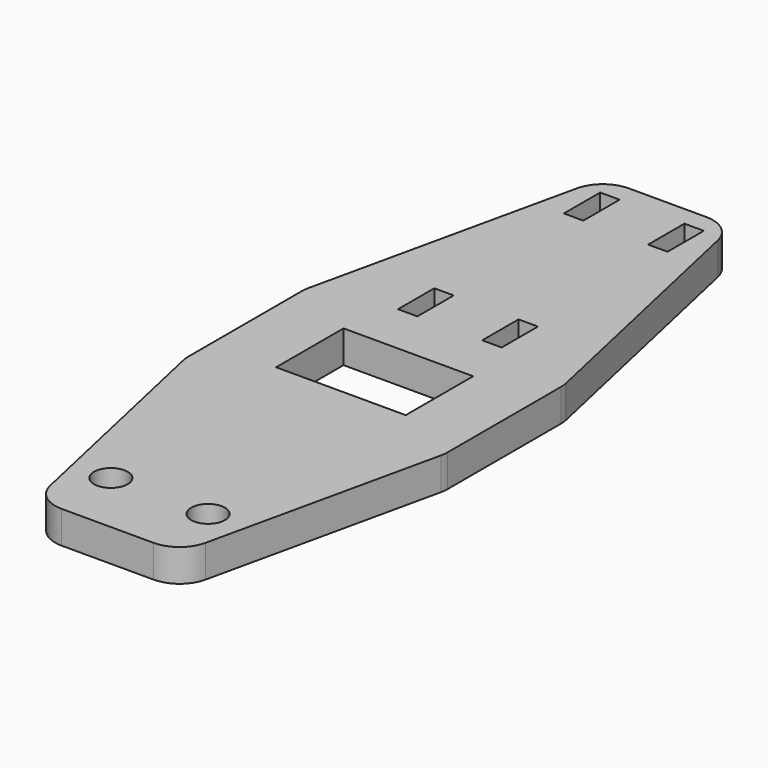
from build123d import *

# Parameters (mm, degrees)
SKETCH_R   = 2.6
SKETCH_W   = 3
SKETCH_H   = 7
SKETCH_W_2 = 20
SKETCH_H_2 = 13
PAD_DEPTH  = 5
FILLET_R   = 5


with BuildPart() as part:
    # Sketch → Pad (new body)
    with BuildSketch(Plane.XY):
        Polygon((-11.11097, 0), (11.11097, 0), (20, 40), (20, 63), (10, 108), (-10, 108), (-20, 63), (-20, 40), align=None)
        with Locations((7.5, 10)):
            Circle(SKETCH_R, mode=Mode.SUBTRACT)
        with Locations((-7.5, 10)):
            Circle(SKETCH_R, mode=Mode.SUBTRACT)
        with Locations((-6.5, 101.5)):
            Rectangle(SKETCH_W, SKETCH_H, mode=Mode.SUBTRACT)
        with Locations((6.5, 101.5)):
            Rectangle(SKETCH_W, SKETCH_H, mode=Mode.SUBTRACT)
        with Locations((0, 51.5)):
            Rectangle(SKETCH_W_2, SKETCH_H_2, mode=Mode.SUBTRACT)
        with Locations((-6.5, 69.5)):
            Rectangle(SKETCH_W, SKETCH_H, mode=Mode.SUBTRACT)
        with Locations((6.5, 69.5)):
            Rectangle(SKETCH_W, SKETCH_H, mode=Mode.SUBTRACT)
    extrude(amount=PAD_DEPTH)

    # Fillet
    fillet_edges = [part.edges().sort_by_distance(p)[0] for p in [
        (10, 108, 2.5),
        (-10, 108, 2.5),
        (20, 63, 2.5),
        (20, 40, 2.5),
        (11.11097, 0, 2.5),
        (-11.11097, 0, 2.5),
        (-20, 40, 2.5),
        (-20, 63, 2.5),
    ]]
    fillet(fillet_edges, radius=FILLET_R)


solid = part.part
